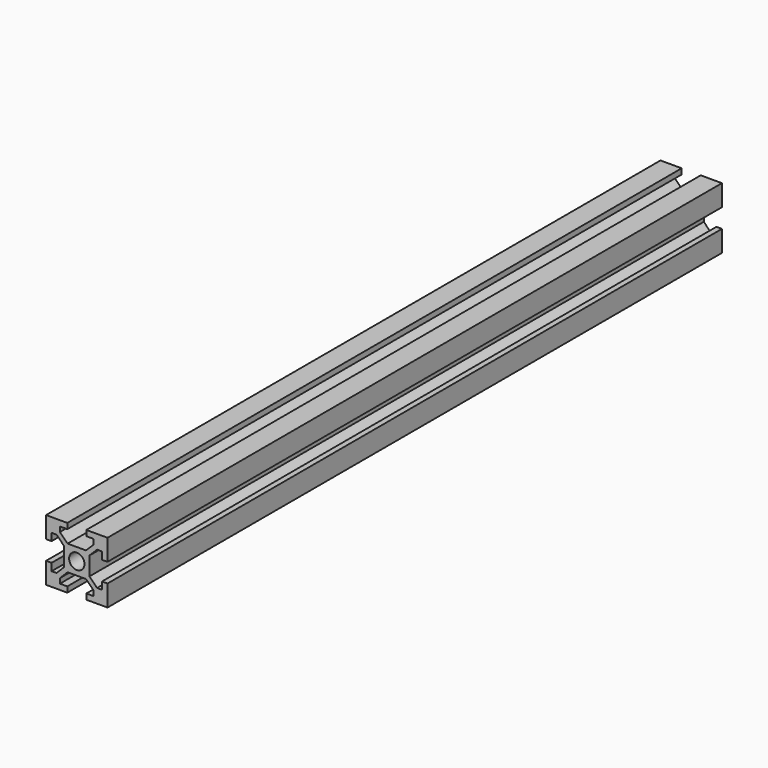
from build123d import *

# Parameters (mm, degrees)
F0_R     = 2.5
F1_DEPTH = 250


with BuildPart() as f1:
    # F0 (on Front) → F1 (new body)
    with BuildSketch(Plane.XZ):
        Polygon((-58.298167, 69.399791), (-65.198167, 69.399791), (-65.198167, 62.499791), (-63.398167, 62.499791), (-63.398167, 64.899791), (-61.798167, 64.899791), (-59.298167, 62.399791), (-59.298167, 56.399791), (-61.798167, 53.899791), (-63.398167, 53.899791), (-63.398167, 56.299791), (-65.198167, 56.299791), (-65.198167, 49.399791), (-58.298167, 49.399791), (-58.298167, 51.199791), (-60.698167, 51.199791), (-60.698167, 52.799791), (-58.198167, 55.299791), (-55.198167, 55.299791), (-52.198167, 55.299791), (-49.698167, 52.799791), (-49.698167, 51.199791), (-52.098167, 51.199791), (-52.098167, 49.399791), (-45.198167, 49.399791), (-45.198167, 56.299791), (-46.998167, 56.299791), (-46.998167, 53.899791), (-48.598167, 53.899791), (-51.098167, 56.399791), (-51.098167, 62.399791), (-48.598167, 64.899791), (-46.998167, 64.899791), (-46.998167, 62.499791), (-45.198167, 62.499791), (-45.198167, 69.399791), (-52.098167, 69.399791), (-52.098167, 67.599791), (-49.698167, 67.599791), (-49.698167, 65.999791), (-52.198167, 63.499791), (-55.198167, 63.499791), (-58.198167, 63.499791), (-60.698167, 65.999791), (-60.698167, 67.599791), (-58.298167, 67.599791), align=None)
        with Locations((-55.198167, 59.399791)):
            Circle(F0_R, mode=Mode.SUBTRACT)
    extrude(amount=F1_DEPTH)


solid = f1.part
